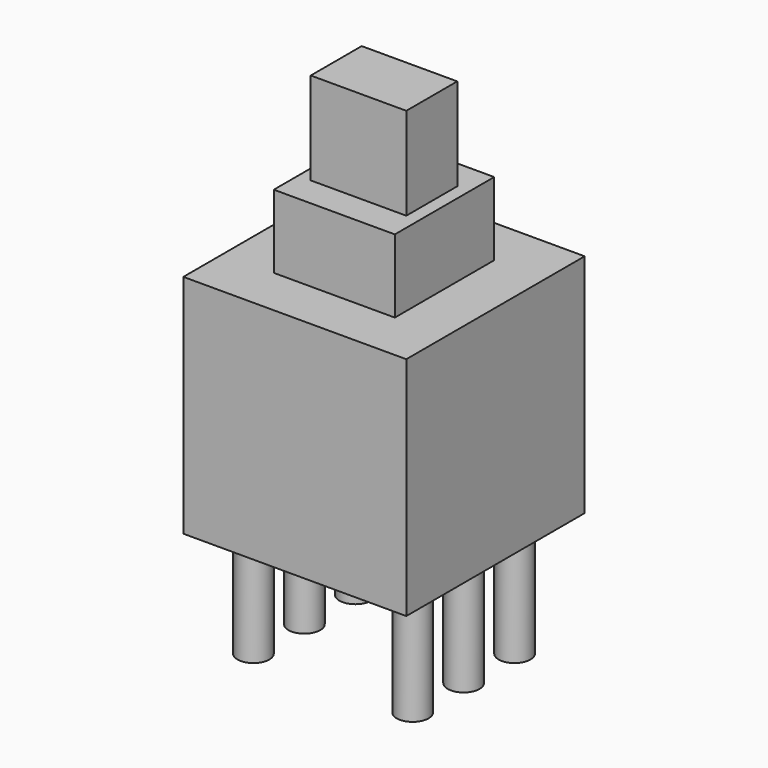
from build123d import *

# Parameters (mm, degrees)
SKETCH069_W             = 7
SKETCH069_H             = 7
PAD039_DEPTH            = 7.1
SKETCH070_R             = 0.5
PAD040_DEPTH            = 3.6
SKETCH071_W             = 3.9
SKETCH071_H             = 3.8
PAD041_DEPTH            = 9.4
SKETCH072_W             = 2
SKETCH072_H             = 3
PAD042_DEPTH            = 12.3
BODY059_PLACEMENT_ANGLE = 90


with BuildPart() as part:
    # Sketch069 → Pad039 (new body)
    with BuildSketch(Plane.XY):
        Rectangle(SKETCH069_W, SKETCH069_H)
    extrude(amount=PAD039_DEPTH)

    # Sketch070 → Pad040 (join)
    with BuildSketch(Plane.XY):
        with Locations((0, 2.5)):
            Circle(SKETCH070_R)
        with Locations((0, -2.5)):
            Circle(SKETCH070_R)
        with Locations((2, 2.5)):
            Circle(SKETCH070_R)
        with Locations((-2, 2.5)):
            Circle(SKETCH070_R)
        with Locations((-2, -2.5)):
            Circle(SKETCH070_R)
        with Locations((2, -2.5)):
            Circle(SKETCH070_R)
    extrude(amount=-PAD040_DEPTH)

    # Sketch071 → Pad041 (join)
    with BuildSketch(Plane.XY):
        Rectangle(SKETCH071_W, SKETCH071_H)
    extrude(amount=PAD041_DEPTH)

    # Sketch072 → Pad042 (join)
    with BuildSketch(Plane.XY):
        Rectangle(SKETCH072_W, SKETCH072_H)
    extrude(amount=PAD042_DEPTH)


with BuildPart() as part_1:
    # Body059 placement: moved
    add(part.part.moved(Location((-8.2, 0, 0))).rotate(Axis((-8.2, 0, 0), (0, 0, 1)), BODY059_PLACEMENT_ANGLE))


solid = part_1.part
